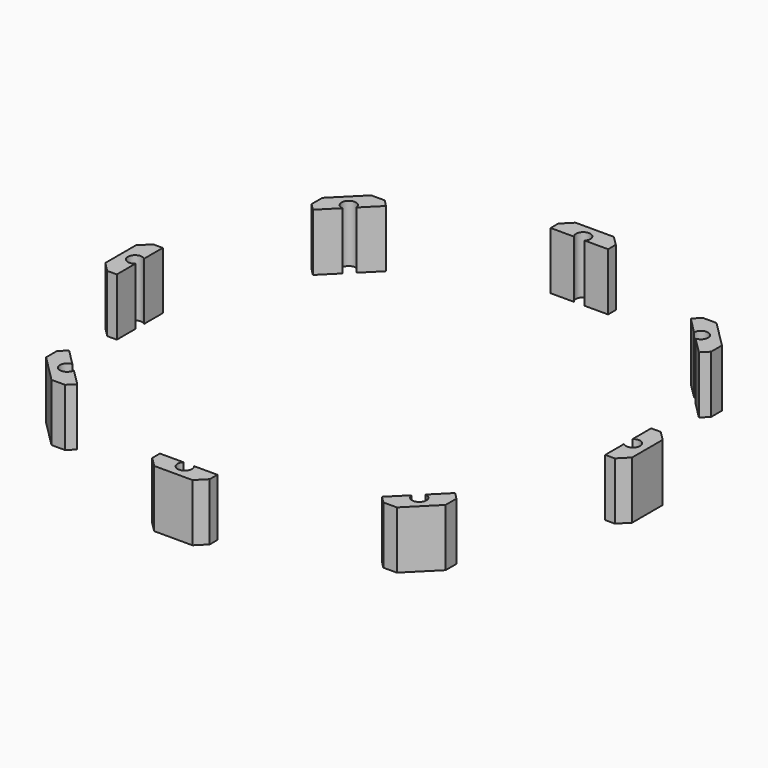
from build123d import *

# Parameters (mm, degrees)
CYLINDER1215_R               = 1.5
CYLINDER1215_DEPTH           = 50
CYLINDER1215_PLACEMENT_ANGLE = 45
CYLINDER1213_R               = 1.5
CYLINDER1213_DEPTH           = 50
CYLINDER1220_R               = 1.5
CYLINDER1220_DEPTH           = 50
CYLINDER1220_PLACEMENT_ANGLE = 135
CYLINDER1216_R               = 1.5
CYLINDER1216_DEPTH           = 50
CYLINDER1217_R               = 1.5
CYLINDER1217_DEPTH           = 50
CYLINDER1217_PLACEMENT_ANGLE = 225
CYLINDER1218_R               = 1.5
CYLINDER1218_DEPTH           = 50
CYLINDER1219_R               = 1.5
CYLINDER1219_DEPTH           = 50
CYLINDER1219_PLACEMENT_ANGLE = 45
CYLINDER1214_R               = 1.5
CYLINDER1214_DEPTH           = 50
BOX511_W                     = 4
BOX511_H                     = 12
BOX511_DEPTH                 = 12
CHAMFER018_SIZE              = 2
CHAMFER018_PLACEMENT_ANGLE   = 45
CHAMFER019_SIZE              = 2
CHAMFER019_PLACEMENT_ANGLE   = 90
CHAMFER020_SIZE              = 2
CHAMFER020_PLACEMENT_ANGLE   = 135
CHAMFER021_SIZE              = 2
CHAMFER021_PLACEMENT_ANGLE   = 180
CHAMFER022_SIZE              = 2
CHAMFER022_PLACEMENT_ANGLE   = 225
CHAMFER023_SIZE              = 2
CHAMFER023_PLACEMENT_ANGLE   = 90
CHAMFER024_SIZE              = 2
CHAMFER024_PLACEMENT_ANGLE   = 45
CHAMFER017_SIZE              = 2


with BuildPart() as obj1:
    # Cylinder1215 → Cylinder1215 (new body)
    with BuildSketch(Plane.XY):
        Circle(CYLINDER1215_R)
    extrude(amount=CYLINDER1215_DEPTH)


with BuildPart() as obj1_1:
    # Cylinder1215 placement: moved
    add(obj1.part.moved(Location((36.769553, 36.769553, 0))).rotate(Axis((36.769553, 36.769553, 0), (0, 0, 1)), CYLINDER1215_PLACEMENT_ANGLE))


with BuildPart() as obj2:
    # Cylinder1213 → Cylinder1213 (new body)
    with BuildSketch(Plane(origin=(0, 52, 0), x_dir=(0, 1, 0), z_dir=(0, 0, 1))):
        Circle(CYLINDER1213_R)
    extrude(amount=CYLINDER1213_DEPTH)


with BuildPart() as obj3:
    # Cylinder1220 → Cylinder1220 (new body)
    with BuildSketch(Plane.XY):
        Circle(CYLINDER1220_R)
    extrude(amount=CYLINDER1220_DEPTH)


with BuildPart() as obj3_1:
    # Cylinder1220 placement: moved
    add(obj3.part.moved(Location((-36.769553, 36.769553, 0))).rotate(Axis((-36.769553, 36.769553, 0), (0, 0, 1)), CYLINDER1220_PLACEMENT_ANGLE))


with BuildPart() as obj4:
    # Cylinder1216 → Cylinder1216 (new body)
    with BuildSketch(Plane(origin=(-52, 0, 0), x_dir=(-1, 0, 0), z_dir=(0, 0, 1))):
        Circle(CYLINDER1216_R)
    extrude(amount=CYLINDER1216_DEPTH)


with BuildPart() as obj5:
    # Cylinder1217 → Cylinder1217 (new body)
    with BuildSketch(Plane.XY):
        Circle(CYLINDER1217_R)
    extrude(amount=CYLINDER1217_DEPTH)


with BuildPart() as obj5_1:
    # Cylinder1217 placement: moved
    add(obj5.part.moved(Location((-36.769553, -36.769553, 0))).rotate(Axis((-36.769553, -36.769553, 0), (0, 0, 1)), CYLINDER1217_PLACEMENT_ANGLE))


with BuildPart() as obj6:
    # Cylinder1218 → Cylinder1218 (new body)
    with BuildSketch(Plane(origin=(0, -52, 0), x_dir=(0, -1, 0), z_dir=(0, 0, 1))):
        Circle(CYLINDER1218_R)
    extrude(amount=CYLINDER1218_DEPTH)


with BuildPart() as obj7:
    # Cylinder1219 → Cylinder1219 (new body)
    with BuildSketch(Plane.XY):
        Circle(CYLINDER1219_R)
    extrude(amount=CYLINDER1219_DEPTH)


with BuildPart() as obj7_1:
    # Cylinder1219 placement: moved
    add(obj7.part.moved(Location((36.769553, -36.769553, 0))).rotate(Axis((36.769553, -36.769553, 0), (0, 0, -1)), CYLINDER1219_PLACEMENT_ANGLE))


with BuildPart() as compound899:
    # Cylinder1214 → Cylinder1214 (new body)
    with BuildSketch(Plane(origin=(52, 0, 0), x_dir=(1, 0, 0), z_dir=(0, 0, 1))):
        Circle(CYLINDER1214_R)
    extrude(amount=CYLINDER1214_DEPTH)

    # Compound899: union obj1, obj2, obj3, obj4, obj5, obj6, obj7
    add(obj1_1.part)
    add(obj2.part)
    add(obj3_1.part)
    add(obj4.part)
    add(obj5_1.part)
    add(obj6.part)
    add(obj7_1.part)


with BuildPart() as compound899_1:
    # Compound899 placement: moved
    add(compound899.part.moved(Location((0, 0, -7))))


with BuildPart() as krychle511:
    # Box511 → Box511 (new body)
    with BuildSketch(Plane(origin=(51, -6, 12), x_dir=(1, 0, 0), z_dir=(0, 0, 1))):
        with Locations((2, 6)):
            Rectangle(BOX511_W, BOX511_H)
    extrude(amount=BOX511_DEPTH)


with BuildPart() as chamfer018:
    # Chamfer018 base: copy of Krychle511
    add(krychle511.part)

    # Chamfer018
    chamfer018_edges = [chamfer018.edges().sort_by_distance(p)[0] for p in [
        (55, -6, 18),
        (55, 6, 18),
    ]]
    chamfer(chamfer018_edges, length=CHAMFER018_SIZE)


with BuildPart() as chamfer018_1:
    # Chamfer018 placement: moved
    add(chamfer018.part.rotate(Axis((0, 0, 0), (0, 0, 1)), CHAMFER018_PLACEMENT_ANGLE))


with BuildPart() as chamfer019:
    # Chamfer019 base: copy of Krychle511
    add(krychle511.part)

    # Chamfer019
    chamfer019_edges = [chamfer019.edges().sort_by_distance(p)[0] for p in [
        (55, -6, 18),
        (55, 6, 18),
    ]]
    chamfer(chamfer019_edges, length=CHAMFER019_SIZE)


with BuildPart() as chamfer019_1:
    # Chamfer019 placement: moved
    add(chamfer019.part.rotate(Axis((0, 0, 0), (0, 0, 1)), CHAMFER019_PLACEMENT_ANGLE))


with BuildPart() as chamfer020:
    # Chamfer020 base: copy of Krychle511
    add(krychle511.part)

    # Chamfer020
    chamfer020_edges = [chamfer020.edges().sort_by_distance(p)[0] for p in [
        (55, -6, 18),
        (55, 6, 18),
    ]]
    chamfer(chamfer020_edges, length=CHAMFER020_SIZE)


with BuildPart() as chamfer020_1:
    # Chamfer020 placement: moved
    add(chamfer020.part.rotate(Axis((0, 0, 0), (0, 0, 1)), CHAMFER020_PLACEMENT_ANGLE))


with BuildPart() as chamfer021:
    # Chamfer021 base: copy of Krychle511
    add(krychle511.part)

    # Chamfer021
    chamfer021_edges = [chamfer021.edges().sort_by_distance(p)[0] for p in [
        (55, -6, 18),
        (55, 6, 18),
    ]]
    chamfer(chamfer021_edges, length=CHAMFER021_SIZE)


with BuildPart() as chamfer021_1:
    # Chamfer021 placement: moved
    add(chamfer021.part.rotate(Axis((0, 0, 0), (0, 0, 1)), CHAMFER021_PLACEMENT_ANGLE))


with BuildPart() as chamfer022:
    # Chamfer022 base: copy of Krychle511
    add(krychle511.part)

    # Chamfer022
    chamfer022_edges = [chamfer022.edges().sort_by_distance(p)[0] for p in [
        (55, -6, 18),
        (55, 6, 18),
    ]]
    chamfer(chamfer022_edges, length=CHAMFER022_SIZE)


with BuildPart() as chamfer022_1:
    # Chamfer022 placement: moved
    add(chamfer022.part.rotate(Axis((0, 0, 0), (0, 0, 1)), CHAMFER022_PLACEMENT_ANGLE))


with BuildPart() as chamfer023:
    # Chamfer023 base: copy of Krychle511
    add(krychle511.part)

    # Chamfer023
    chamfer023_edges = [chamfer023.edges().sort_by_distance(p)[0] for p in [
        (55, -6, 18),
        (55, 6, 18),
    ]]
    chamfer(chamfer023_edges, length=CHAMFER023_SIZE)


with BuildPart() as chamfer023_1:
    # Chamfer023 placement: moved
    add(chamfer023.part.rotate(Axis((0, 0, 0), (0, 0, -1)), CHAMFER023_PLACEMENT_ANGLE))


with BuildPart() as chamfer024:
    # Chamfer024 base: copy of Krychle511
    add(krychle511.part)

    # Chamfer024
    chamfer024_edges = [chamfer024.edges().sort_by_distance(p)[0] for p in [
        (55, -6, 18),
        (55, 6, 18),
    ]]
    chamfer(chamfer024_edges, length=CHAMFER024_SIZE)


with BuildPart() as chamfer024_1:
    # Chamfer024 placement: moved
    add(chamfer024.part.rotate(Axis((0, 0, 0), (0, 0, -1)), CHAMFER024_PLACEMENT_ANGLE))


with BuildPart() as cut449:
    # Chamfer017 base: copy of Krychle511
    add(krychle511.part)

    # Chamfer017
    chamfer017_edges = [cut449.edges().sort_by_distance(p)[0] for p in [
        (55, -6, 18),
        (55, 6, 18),
    ]]
    chamfer(chamfer017_edges, length=CHAMFER017_SIZE)

    # Compound901: union Chamfer018, Chamfer019, Chamfer020, Chamfer021, Chamfer022, Chamfer023, Chamfer024
    add(chamfer018_1.part)
    add(chamfer019_1.part)
    add(chamfer020_1.part)
    add(chamfer021_1.part)
    add(chamfer022_1.part)
    add(chamfer023_1.part)
    add(chamfer024_1.part)

    # Cut449: cut Compound899
    add(compound899_1.part, mode=Mode.SUBTRACT)


solid = cut449.part
